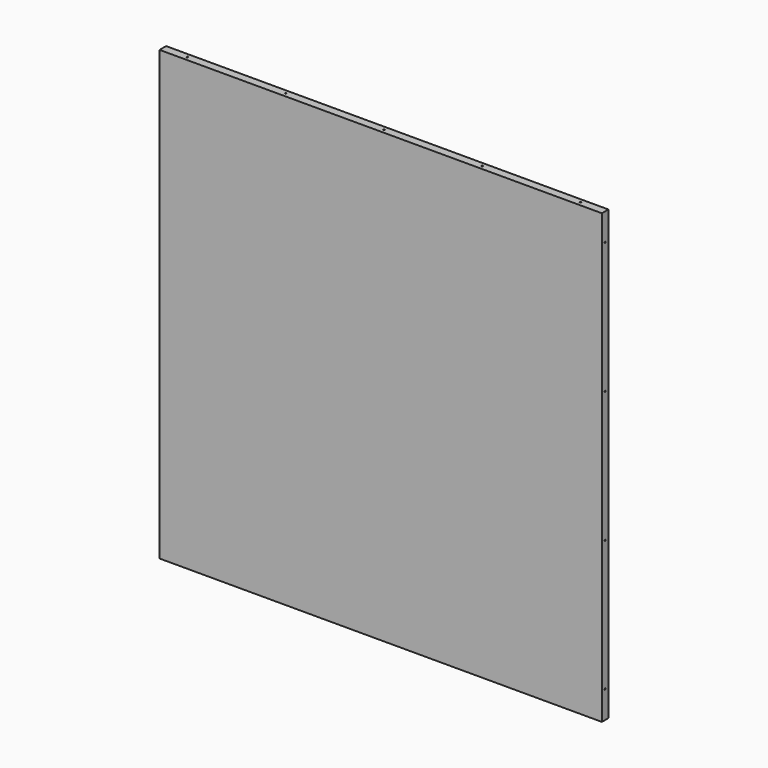
from build123d import *

# Parameters (mm, degrees)
F0_W     = 1028.7
F0_H     = 1041.4
F1_DEPTH = 19.05
F2_R     = 1.5875
F3_DEPTH = 1028.7
F4_R     = 1.5875
F5_DEPTH = 1041.401


with BuildPart() as f1:
    # F0 (on Front) → F1 (new body)
    with BuildSketch(Plane.XZ):
        with Locations((514.35, -520.7)):
            Rectangle(F0_W, F0_H)
    extrude(amount=-F1_DEPTH)

    # F2 (on Right) → F3 (cut)
    with BuildSketch(Plane.YZ):
        with Locations((9.525, -63.5)):
            Circle(F2_R)
        with Locations((9.525, -368.3)):
            Circle(F2_R)
        with Locations((9.525, -673.1)):
            Circle(F2_R)
        with Locations((9.525, -977.9)):
            Circle(F2_R)
    extrude(amount=F3_DEPTH, mode=Mode.SUBTRACT)

    # F4 (on Top) → F5 (cut, through all)
    with BuildSketch(Plane.XY):
        with Locations((57.15, 9.525)):
            Circle(F4_R)
        with Locations((285.75, 9.525)):
            Circle(F4_R)
        with Locations((514.35, 9.525)):
            Circle(F4_R)
        with Locations((742.95, 9.525)):
            Circle(F4_R)
        with Locations((971.55, 9.525)):
            Circle(F4_R)
    extrude(amount=-F5_DEPTH, mode=Mode.SUBTRACT)


solid = f1.part
